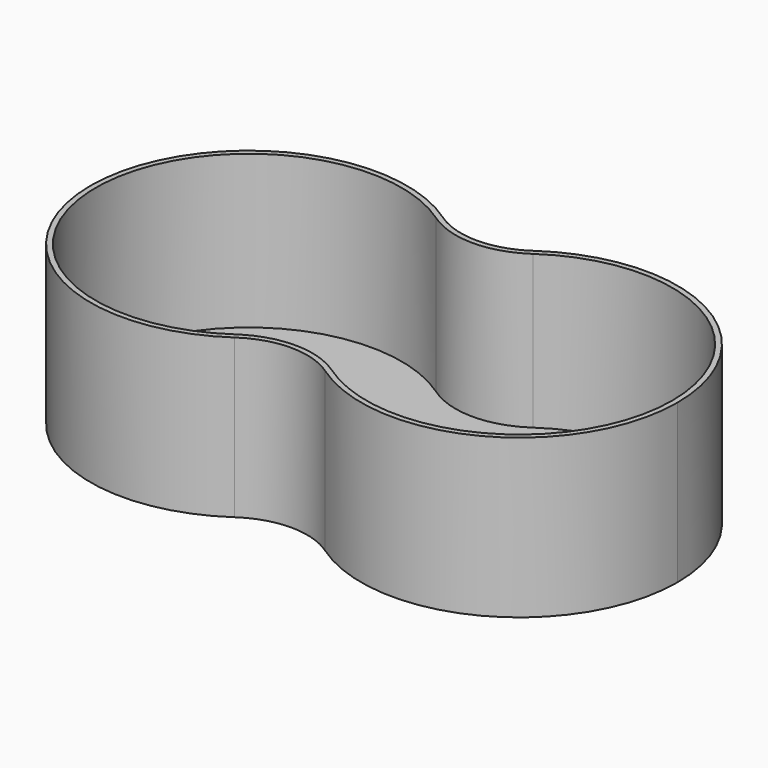
from build123d import *

# Parameters (mm, degrees)
F1_DEPTH = 25
F2_R     = 12.6178924605
F3_T     = -0.84


with BuildPart() as f1:
    # F0 (on Top) → F1 (new body)
    with BuildSketch(Plane.XY):
        with BuildLine():
            ThreePointArc((-3.620624356, -12.9584835946), (-7.2412487119, 0), (-3.620624356, 12.9584835946))
            ThreePointArc((-3.620624356, 12.9584835946), (-50, 0), (-3.620624356, -12.9584835946))
        make_face()
        with BuildLine():
            ThreePointArc((-3.620624356, -12.9584835946), (-0.9221638109, -6.7273920987), (0, 0))
            ThreePointArc((0, 0), (-0.9221638109, 6.7273920987), (-3.620624356, 12.9584835946))
            ThreePointArc((-3.620624356, 12.9584835946), (-7.2412487119, 0), (-3.620624356, -12.9584835946))
        make_face()
        with BuildLine():
            ThreePointArc((-3.620624356, -12.9584835946), (-0.9221638109, -6.7273920987), (0, 0))
            ThreePointArc((0, 0), (-0.9221638109, 6.7273920987), (-3.620624356, 12.9584835946))
            ThreePointArc((-3.620624356, 12.9584835946), (-7.2412487119, 0), (-3.620624356, -12.9584835946))
        make_face()
        with BuildLine():
            ThreePointArc((-3.620624356, 12.9584835946), (-0.9221638109, 6.7273920987), (0, 0))
            ThreePointArc((0, 0), (-0.9221638109, -6.7273920987), (-3.620624356, -12.9584835946))
            ThreePointArc((-3.620624356, -12.9584835946), (24.4861433868, -24.0778361891), (42.7587512881, 0))
            ThreePointArc((42.7587512881, 0), (24.4861433868, 24.0778361891), (-3.620624356, 12.9584835946))
        make_face()
    extrude(amount=F1_DEPTH)

    # F2
    f2_edges = [f1.edges().sort_by_distance(p)[0] for p in [
        (-3.620624, 12.958484, 12.5),
        (-3.620624, -12.958484, 12.5),
    ]]
    fillet(f2_edges, radius=F2_R)

    # F3
    f3_openings = [f1.faces().sort_by_distance(p)[0] for p in [
        (-3.620624, 0, 25),
    ]]
    offset(amount=F3_T, openings=f3_openings, kind=Kind.INTERSECTION)


solid = f1.part
